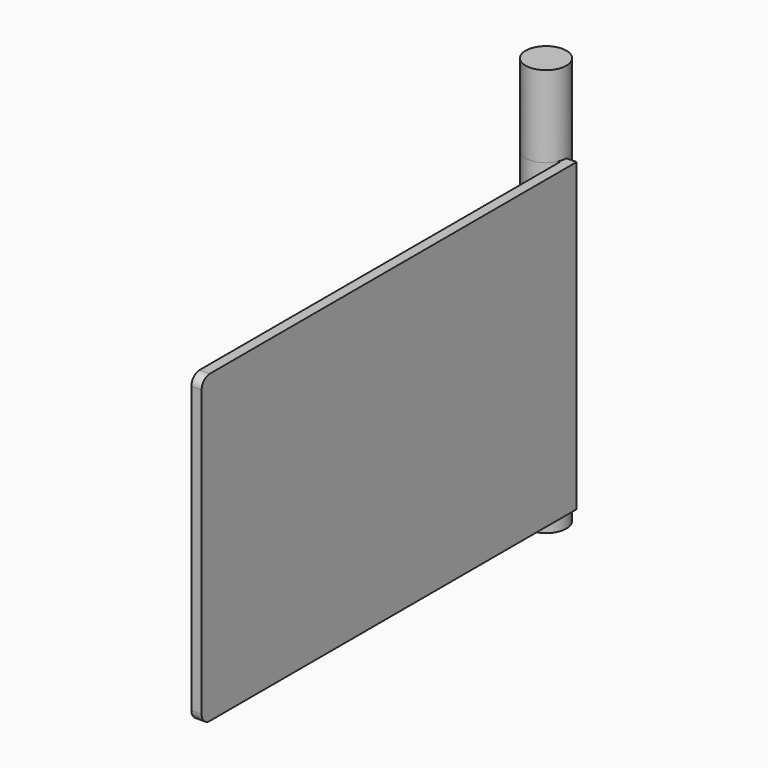
from build123d import *

# Parameters (mm, degrees)
F1_DEPTH = 95.25
F2_R     = 6.35
F3_DEPTH = 25.4
F4_R     = 6.35
F5_DEPTH = 6.35
F7_DEPTH = 25.4


with BuildPart() as f1:
    # F0 (on Top) → F1 (new body)
    with BuildSketch(Plane.XY):
        with BuildLine():
            Line((9.525, 0), (6.35, 0))
            ThreePointArc((6.35, 0), (-6.2239381909, 1.2590049228), (5.8507579856, -2.4680216762))
            Line((5.8507579856, -2.4680216762), (6.35, -2.4680216762))
            Line((6.35, -2.4680216762), (6.35, -146.05))
            Line((6.35, -146.05), (9.525, -146.05))
            Line((9.525, -146.05), (9.525, 0))
        make_face()
    extrude(amount=F1_DEPTH)

    # F2 (on face) → F3 (join)
    with BuildSketch(Plane.XY.offset(95.25)):
        Circle(F2_R)
    extrude(amount=F3_DEPTH)

    # F4 (on face) → F5 (join)
    with BuildSketch(Plane(origin=(0, 0, 0), x_dir=(1, 0, 0), z_dir=(0, 0, -1))):
        Circle(F4_R)
    extrude(amount=F5_DEPTH)

    # F6 (on face) → F7 (cut)
    with BuildSketch(Plane.YZ.offset(9.525)):
        with BuildLine():
            ThreePointArc((-146.05, 92.075), (-145.1200640303, 94.3200640303), (-142.875, 95.25))
            Line((-142.875, 95.25), (-146.05, 95.25))
            Line((-146.05, 95.25), (-146.05, 92.075))
        make_face()
        with BuildLine():
            ThreePointArc((-142.875, 0), (-145.1200640303, 0.9299359697), (-146.05, 3.175))
            Line((-146.05, 3.175), (-146.05, 0))
            Line((-146.05, 0), (-142.875, 0))
        make_face()
    extrude(amount=-F7_DEPTH, mode=Mode.SUBTRACT)


solid = f1.part
